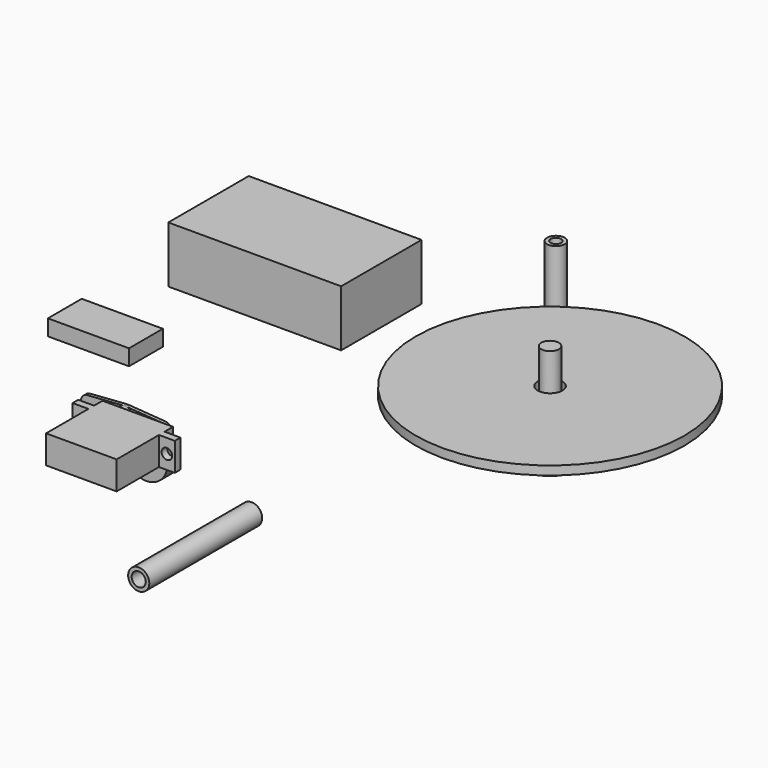
from build123d import *

# Parameters (mm, degrees)
F0_R      = 2.5
F0_R_2    = 1.5
F1_DEPTH  = 30
F2_R      = 9
F3_DEPTH  = 15.3
F4_R      = 2.5
F5_DEPTH  = 12.5
F6_R      = 38.1
F6_R_2    = 3.5
F7_DEPTH  = 2.5
F8_W      = 20
F8_H      = 20
F9_DEPTH  = 8
F10_W     = 2
F10_H     = 8
F11_DEPTH = 4.5
F12_W     = 2
F12_H     = 8
F13_DEPTH = 4.5
F14_R     = 2.75
F15_DEPTH = 4
F16_R     = 1.5
F17_DEPTH = 17.001
F18_W     = 49
F18_H     = 28.5
F19_DEPTH = 16
F21_DEPTH = 1
F22_W     = 23
F22_H     = 12
F23_DEPTH = 4.5
F24_R     = 6
F24_R_2   = 3
F25_DEPTH = 4
F26_R     = 3
F26_R_2   = 2
F27_DEPTH = 40


with BuildPart() as f1:
    # F0 (on Top) → F1 (new body)
    with BuildSketch(Plane.XY):
        with Locations((8.318727, 64.185089)):
            Circle(F0_R)
        with Locations((8.318727, 64.185089)):
            Circle(F0_R_2, mode=Mode.SUBTRACT)
    extrude(amount=F1_DEPTH)


with BuildPart() as f3:
    # F2 (on Top) → F3 (new body)
    with BuildSketch(Plane.XY):
        with Locations((36.121637, 27.358277)):
            Circle(F2_R)
    extrude(amount=F3_DEPTH)

    # F4 (on face) → F5 (join)
    with BuildSketch(Plane.XY.offset(15.3)):
        with Locations((36.121637, 27.358277)):
            Circle(F4_R)
    extrude(amount=F5_DEPTH)

    # F6 (on face) → F7 (join)
    with BuildSketch(Plane.XY.offset(15.3)):
        with Locations((36.121637, 27.358277)):
            Circle(F6_R)
        with Locations((36.121637, 27.358277)):
            Circle(F6_R_2, mode=Mode.SUBTRACT)
    extrude(amount=F7_DEPTH)


with BuildPart() as f9:
    # F8 (on Top) → F9 (new body)
    with BuildSketch(Plane.XY):
        with Locations((-38.596382, -35.360286)):
            Rectangle(F8_W, F8_H)
    extrude(amount=F9_DEPTH)

    # F10 (on face) → F11 (join)
    with BuildSketch(Plane.YZ.offset(-28.596382)):
        with Locations((-29.360286, 4)):
            Rectangle(F10_W, F10_H)
    extrude(amount=F11_DEPTH)

    # F12 (on face) → F13 (join)
    with BuildSketch(Plane(origin=(-48.596382, 0, 0), x_dir=(0, -1, 0), z_dir=(-1, 0, 0))):
        with Locations((29.360286, 4)):
            Rectangle(F12_W, F12_H)
    extrude(amount=F13_DEPTH)

    # F14 (on face) → F15 (join)
    with BuildSketch(Plane(origin=(0, -25.360286, 0), x_dir=(-1, 0, 0), z_dir=(0, 1, 0))):
        with Locations((44.596382, 4)):
            Circle(F14_R)
    extrude(amount=F15_DEPTH)

    # F16 (on face) → F17 (cut, through all)
    with BuildSketch(Plane(origin=(0, -28.360286, 0), x_dir=(-1, 0, 0), z_dir=(0, 1, 0))):
        with Locations((50.846382, 4)):
            Circle(F16_R)
        with Locations((26.346382, 4)):
            Circle(F16_R)
    extrude(amount=-F17_DEPTH, mode=Mode.SUBTRACT)

    # F20 (on face) → F21 (join)
    with BuildSketch(Plane(origin=(0, -21.360286, 0), x_dir=(-1, 0, 0), z_dir=(0, 1, 0))):
        with BuildLine():
            Line((55.096382, 5.999839), (44.596382, 6.757143))
            Line((44.596382, 6.757143), (34.096382, 5.999839))
            ThreePointArc((34.096382, 5.999839), (32.121733, 4), (34.096382, 2.000161))
            Line((34.096382, 2.000161), (44.596382, 1.242857))
            Line((44.596382, 1.242857), (55.096382, 2.000161))
            ThreePointArc((55.096382, 2.000161), (57.121733, 4), (55.096382, 5.999839))
        make_face()
    extrude(amount=-F21_DEPTH)


with BuildPart() as f19:
    # F18 (on Top) → F19 (new body)
    with BuildSketch(Plane.XY):
        with Locations((-56.532371, 52.750417)):
            Rectangle(F18_W, F18_H)
    extrude(amount=F19_DEPTH)


with BuildPart() as f23:
    # F22 (on Top) → F23 (new body)
    with BuildSketch(Plane.XY):
        with Locations((-75.432478, 9.199938)):
            Rectangle(F22_W, F22_H)
    extrude(amount=F23_DEPTH)


with BuildPart() as f25:
    # F24 (on Front) → F25 (new body)
    with BuildSketch(Plane.XZ):
        with Locations((-53.271893, -16.232332)):
            Circle(F24_R)
        with Locations((-53.271893, -16.232332)):
            Circle(F24_R_2, mode=Mode.SUBTRACT)
    extrude(amount=F25_DEPTH)


with BuildPart() as f27:
    # F26 (on Front) → F27 (new body)
    with BuildSketch(Plane.XZ):
        with Locations((-26.618712, -23.472017)):
            Circle(F26_R)
        with Locations((-26.618712, -23.472017)):
            Circle(F26_R_2, mode=Mode.SUBTRACT)
    extrude(amount=F27_DEPTH)


solid = Compound([f1.part, f3.part, f9.part, f19.part, f23.part, f25.part, f27.part])
